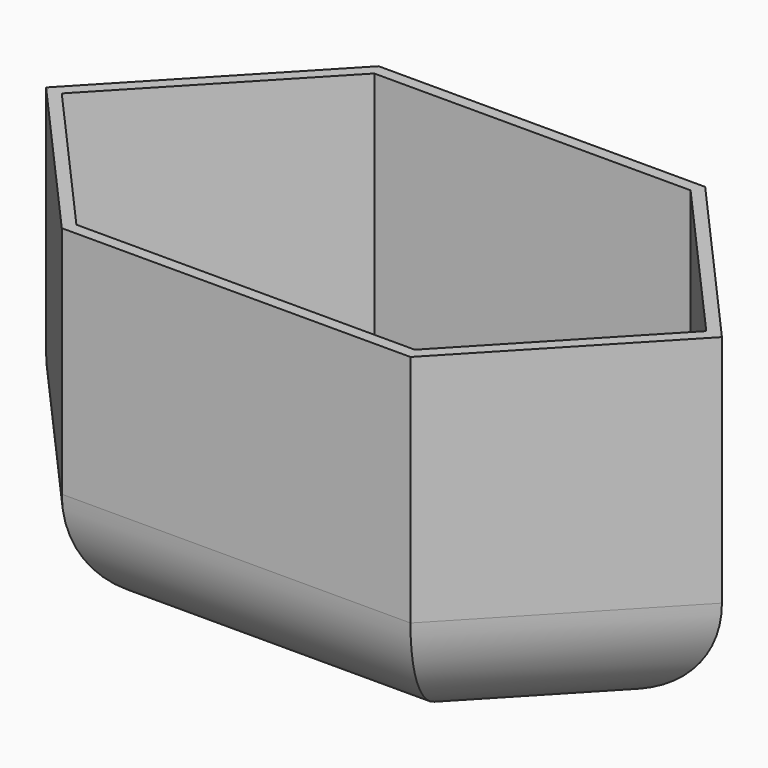
from build123d import *

# Parameters (mm, degrees)
F1_DEPTH = 76.2
F2_R     = 25.4
F3_T     = -2.54


with BuildPart() as f1:
    # F0 (on Top) → F1 (new body)
    with BuildSketch(Plane.XY):
        Polygon((-31.621649, 41.264485), (-70.740356, 0), (-36.419954, -38.650967), (39.222521, -38.650967), (75.863615, 0), (39.222521, 41.264485), align=None)
    extrude(amount=F1_DEPTH)

    # F2
    f2_edges = [f1.edges().sort_by_distance(p)[0] for p in [
        (3.800436, 41.264485, 0),
        (-51.181002, 20.632243, 0),
        (-53.580155, -19.325484, 0),
        (1.401283, -38.650967, 0),
        (57.543068, -19.325484, 0),
        (57.543068, 20.632243, 0),
    ]]
    fillet(f2_edges, radius=F2_R)

    # F3
    f3_openings = [f1.faces().sort_by_distance(p)[0] for p in [
        (2.587769, 0.870708, 76.2),
    ]]
    offset(amount=F3_T, openings=f3_openings)


solid = f1.part
